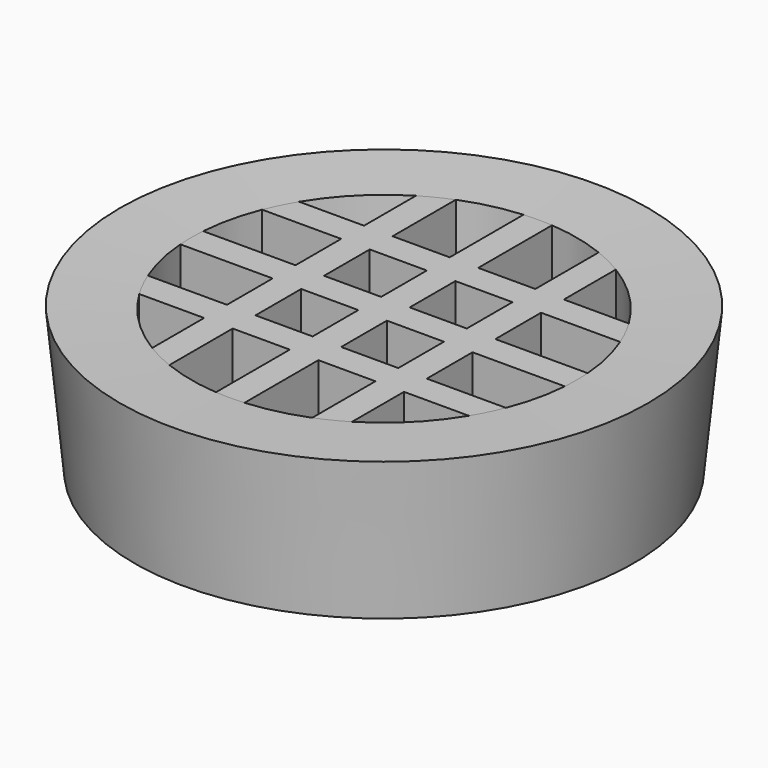
from build123d import *

# Parameters (mm, degrees)
F2_W     = 4
F2_H     = 4
F3_DEPTH = 10


with BuildPart() as f1:
    # F0 (on Front) → F1 (revolve)
    with BuildSketch(Plane.XZ):
        Polygon((-18.5, 10.194688), (-17.5, 0), (-13.5, 0), (-13.5, 10), align=None)
    revolve(axis=Axis((0, 0, 3.021993), (0, 0, -1)))

    # F2 (on Top) → F3 (join)
    with BuildSketch(Plane.XY):
        with BuildLine():
            Line((-7, 7), (-11.666143, 7))
            ThreePointArc((-11.666143, 7), (-12.200632, 6.020256), (-12.653019, 5))
            Line((-12.653019, 5), (-7, 5))
            Line((-7, 5), (-7, 1))
            Line((-7, 1), (-13.568305, 1))
            ThreePointArc((-13.568305, 1), (-13.605106, 0), (-13.568305, -1))
            Line((-13.568305, -1), (-7, -1))
            Line((-7, -1), (-7, -5))
            Line((-7, -5), (-12.653019, -5))
            ThreePointArc((-12.653019, -5), (-12.200632, -6.020256), (-11.666143, -7))
            Line((-11.666143, -7), (-7, -7))
            Line((-7, -7), (-7, -11.666143))
            ThreePointArc((-7, -11.666143), (-6.020256, -12.200632), (-5, -12.653019))
            Line((-5, -12.653019), (-5, -7))
            Line((-5, -7), (-1, -7))
            Line((-1, -7), (-1, -13.568305))
            ThreePointArc((-1, -13.568305), (0, -13.605106), (1, -13.568305))
            Line((1, -13.568305), (1, -7))
            Line((1, -7), (5, -7))
            Line((5, -7), (5, -12.653019))
            ThreePointArc((5, -12.653019), (6.020256, -12.200632), (7, -11.666143))
            Line((7, -11.666143), (7, -7))
            Line((7, -7), (11.666143, -7))
            ThreePointArc((11.666143, -7), (12.200632, -6.020256), (12.653019, -5))
            Line((12.653019, -5), (7, -5))
            Line((7, -5), (7, -1))
            Line((7, -1), (13.568305, -1))
            ThreePointArc((13.568305, -1), (13.605106, 0), (13.568305, 1))
            Line((13.568305, 1), (7, 1))
            Line((7, 1), (7, 5))
            Line((7, 5), (12.653019, 5))
            ThreePointArc((12.653019, 5), (12.200632, 6.020256), (11.666143, 7))
            Line((11.666143, 7), (7, 7))
            Line((7, 7), (7, 11.666143))
            ThreePointArc((7, 11.666143), (6.020256, 12.200632), (5, 12.653019))
            Line((5, 12.653019), (5, 7))
            Line((5, 7), (1, 7))
            Line((1, 7), (1, 13.568305))
            ThreePointArc((1, 13.568305), (0, 13.605106), (-1, 13.568305))
            Line((-1, 13.568305), (-1, 7))
            Line((-1, 7), (-5, 7))
            Line((-5, 7), (-5, 12.653019))
            ThreePointArc((-5, 12.653019), (-6.020256, 12.200632), (-7, 11.666143))
            Line((-7, 11.666143), (-7, 7))
        make_face()
        with Locations((-3, -3)):
            Rectangle(F2_W, F2_H, mode=Mode.SUBTRACT)
        with Locations((3, -3)):
            Rectangle(F2_W, F2_H, mode=Mode.SUBTRACT)
        with Locations((-3, 3)):
            Rectangle(F2_W, F2_H, mode=Mode.SUBTRACT)
        with Locations((3, 3)):
            Rectangle(F2_W, F2_H, mode=Mode.SUBTRACT)
    extrude(amount=F3_DEPTH)


solid = f1.part
